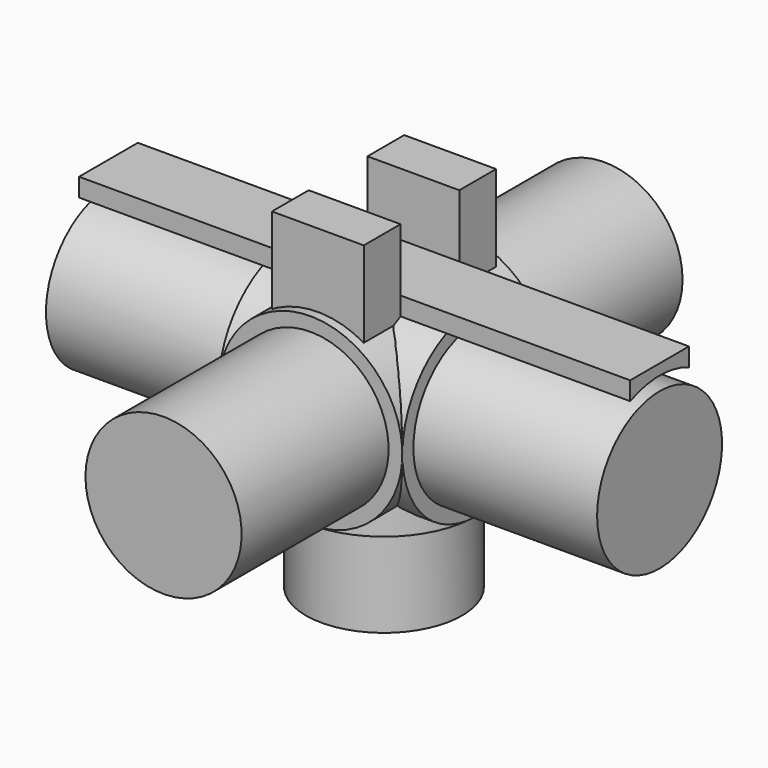
from build123d import *

# Parameters (mm, degrees)
CYLINDER003_R             = 10
CYLINDER003_DEPTH         = 6
CYLINDER004_R             = 8.5
CYLINDER004_DEPTH         = 20
CYLINDER006_R             = 8.5
CYLINDER006_DEPTH         = 20
CYLINDER005_R             = 10
CYLINDER005_DEPTH         = 10
FUSION001_PLACEMENT_ANGLE = 90
PAD_DEPTH                 = 60
CYLINDER007_R             = 8.5
CYLINDER007_DEPTH         = 20
CYLINDER_R                = 10
CYLINDER_DEPTH            = 10
CYLINDER008_R             = 10
CYLINDER008_DEPTH         = 10
CYLINDER009_R             = 8.5
CYLINDER009_DEPTH         = 20
CYLINDER010_R             = 8.5
CYLINDER010_DEPTH         = 20
CYLINDER011_R             = 10
CYLINDER011_DEPTH         = 6
BOX_W                     = 10
BOX_H                     = 5
BOX_DEPTH                 = 10
BOX001_W                  = 10
BOX001_H                  = 5
BOX001_DEPTH              = 10


with BuildPart() as sphere:
    # Sphere → Sphere (revolve)
    with BuildSketch(Plane.XZ):
        with BuildLine():
            ThreePointArc((0, -10), (10, 0), (0, 10))
            Line((0, 10), (0, -10))
        make_face()
    revolve(axis=Axis((0, 0, 0), (0, 0, 1)))


with BuildPart() as cylinder003:
    # Cylinder003 → Cylinder003 (new body)
    with BuildSketch(Plane(origin=(0, -4, 0), x_dir=(-1, 0, 0), z_dir=(0, -1, 0))):
        Circle(CYLINDER003_R)
    extrude(amount=CYLINDER003_DEPTH)


with BuildPart() as cylinder004:
    # Cylinder004 → Cylinder004 (new body)
    with BuildSketch(Plane(origin=(0, 10, 0), x_dir=(1, 0, 0), z_dir=(0, 1, 0))):
        Circle(CYLINDER004_R)
    extrude(amount=CYLINDER004_DEPTH)


with BuildPart() as cylinder006:
    # Cylinder006 → Cylinder006 (new body)
    with BuildSketch(Plane(origin=(0, 0, 0), x_dir=(-1, 0, 0), z_dir=(0, -1, 0))):
        Circle(CYLINDER006_R)
    extrude(amount=CYLINDER006_DEPTH)


with BuildPart() as stand_join:
    # Cylinder005 → Cylinder005 (new body)
    with BuildSketch(Plane(origin=(0, 0, 0), x_dir=(-1, 0, 0), z_dir=(0, -1, 0))):
        Circle(CYLINDER005_R)
    extrude(amount=CYLINDER005_DEPTH)

    # Fusion001: union Cylinder006
    add(cylinder006.part)


with BuildPart() as stand_join_1:
    # Fusion001 placement: moved
    add(stand_join.part.rotate(Axis((0, 0, 0), (1, 0, 0)), FUSION001_PLACEMENT_ANGLE))


with BuildPart() as body:
    # Sketch → Pad (new body)
    with BuildSketch(Plane.YZ):
        with BuildLine():
            ThreePointArc((4, 9.165151), (0, 10), (-4, 9.165151))
            Line((-4, 9.165151), (-4, 11.165151))
            Line((-4, 11.165151), (4, 11.165151))
            Line((4, 11.165151), (4, 9.165151))
        make_face()
    extrude(amount=-PAD_DEPTH)


with BuildPart() as body_1:
    # Body placement: moved
    add(body.part.moved(Location((30, 0, 0))))


with BuildPart() as cylinder007:
    # Cylinder007 → Cylinder007 (new body)
    with BuildSketch(Plane(origin=(10, 0, 0), x_dir=(0, -1, 0), z_dir=(1, 0, 0))):
        Circle(CYLINDER007_R)
    extrude(amount=CYLINDER007_DEPTH)


with BuildPart() as cylinder:
    # Cylinder → Cylinder (new body)
    with BuildSketch(Plane(origin=(0, 0, 0), x_dir=(0, 0, -1), z_dir=(1, 0, 0))):
        Circle(CYLINDER_R)
    extrude(amount=CYLINDER_DEPTH)


with BuildPart() as cylinder008:
    # Cylinder008 → Cylinder008 (new body)
    with BuildSketch(Plane(origin=(0, 0, 0), x_dir=(0, 0, -1), z_dir=(-1, 0, 0))):
        Circle(CYLINDER008_R)
    extrude(amount=CYLINDER008_DEPTH)


with BuildPart() as cylinder009:
    # Cylinder009 → Cylinder009 (new body)
    with BuildSketch(Plane(origin=(-10, 0, 0), x_dir=(0, 1, 0), z_dir=(-1, 0, 0))):
        Circle(CYLINDER009_R)
    extrude(amount=CYLINDER009_DEPTH)


with BuildPart() as cylinder010:
    # Cylinder010 → Cylinder010 (new body)
    with BuildSketch(Plane(origin=(0, -10, 0), x_dir=(-1, 0, 0), z_dir=(0, -1, 0))):
        Circle(CYLINDER010_R)
    extrude(amount=CYLINDER010_DEPTH)


with BuildPart() as cylinder011:
    # Cylinder011 → Cylinder011 (new body)
    with BuildSketch(Plane(origin=(0, 4, 0), x_dir=(1, 0, 0), z_dir=(0, 1, 0))):
        Circle(CYLINDER011_R)
    extrude(amount=CYLINDER011_DEPTH)


with BuildPart() as cube:
    # Box → Box (new body)
    with BuildSketch(Plane(origin=(-5, 4, 8), x_dir=(1, 0, 0), z_dir=(0, 0, 1))):
        with Locations((5, 2.5)):
            Rectangle(BOX_W, BOX_H)
    extrude(amount=BOX_DEPTH)


with BuildPart() as cube001:
    # Box001 → Box001 (new body)
    with BuildSketch(Plane(origin=(-5, -9, 8), x_dir=(1, 0, 0), z_dir=(0, 0, 1))):
        with Locations((5, 2.5)):
            Rectangle(BOX001_W, BOX001_H)
    extrude(amount=BOX001_DEPTH)


solid = Compound([sphere.part, cylinder003.part, cylinder004.part, stand_join_1.part, body_1.part, cylinder007.part, cylinder.part, cylinder008.part, cylinder009.part, cylinder010.part, cylinder011.part, cube.part, cube001.part])
